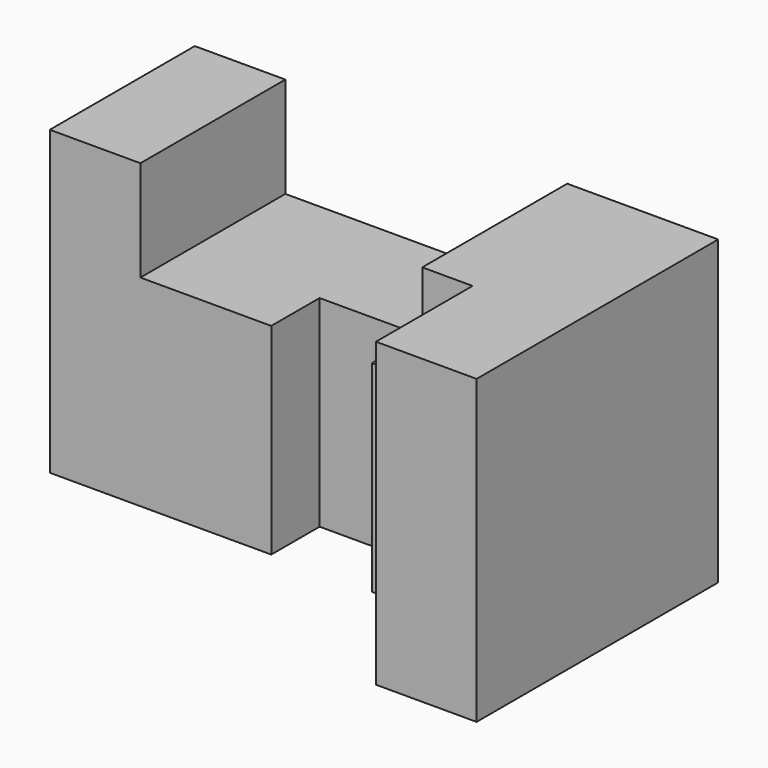
from build123d import *

# Parameters (mm, degrees)
F0_W     = 130
F0_H     = 75
F1_DEPTH = 75
F3_DEPTH = 90
F4_W     = 70
F4_H     = 45
F5_DEPTH = 25


with BuildPart() as f1:
    # F0 (on Top) → F1 (new body)
    with BuildSketch(Plane.XY):
        with Locations((65, 37.5)):
            Rectangle(F0_W, F0_H)
    extrude(amount=F1_DEPTH)

    # F2 (on face) → F3 (cut)
    with BuildSketch(Plane.XY.offset(75)):
        Polygon((0, 0), (105, 0), (105, 30), (80, 30), (80, 45), (55, 45), (55, 30), (0, 30), align=None)
    extrude(amount=-F3_DEPTH, mode=Mode.SUBTRACT)

    # F4 (on face) → F5 (cut)
    with BuildSketch(Plane.XY.offset(75)):
        with Locations((57.5, 52.5)):
            Rectangle(F4_W, F4_H)
    extrude(amount=-F5_DEPTH, mode=Mode.SUBTRACT)


solid = f1.part
